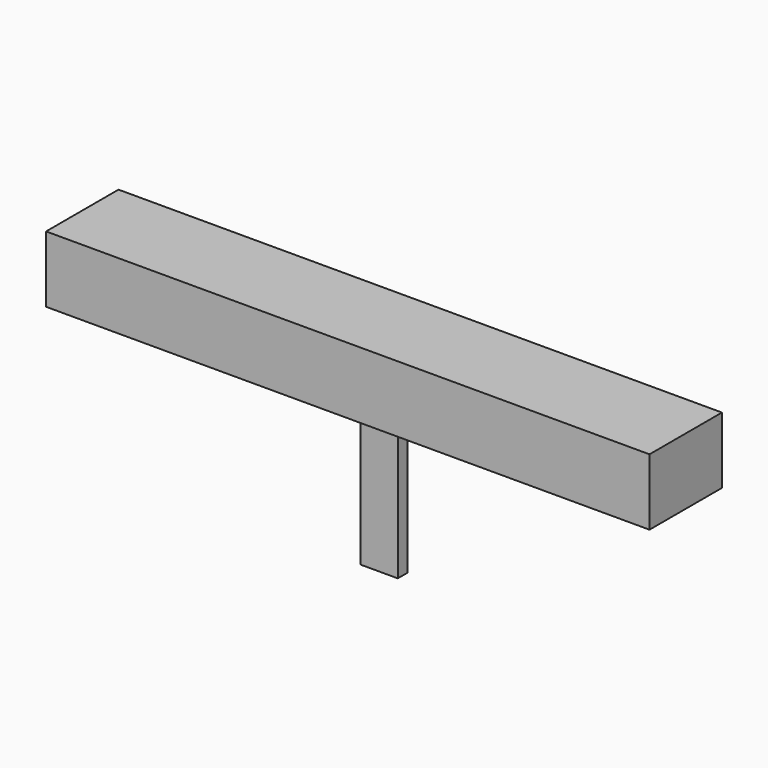
from build123d import *

# Parameters (mm, degrees)
F0_W     = 60
F0_H     = 9
F1_DEPTH = 6.6
F2_W     = 48.626702
F2_H     = 3.214986
F2_R     = 0.929944
F3_DEPTH = 1
F4_W     = 3.7
F4_H     = 1.2
F5_DEPTH = 21.6


with BuildPart() as f1:
    # F0 (on Top) → F1 (new body)
    with BuildSketch(Plane.XY):
        Rectangle(F0_W, F0_H)
    extrude(amount=-F1_DEPTH)

    # F2 (on face) → F3 (cut)
    with BuildSketch(Plane(origin=(0, 0, -6.6), x_dir=(1, 0, 0), z_dir=(0, 0, -1))):
        Rectangle(F2_W, F2_H)
        with Locations((-27.945412, 0)):
            Circle(F2_R)
        with Locations((27.945412, 0)):
            Circle(F2_R)
    extrude(amount=-F3_DEPTH, mode=Mode.SUBTRACT)

    # F4 (on face) → F5 (join)
    with BuildSketch(Plane.XY):
        Rectangle(F4_W, F4_H)
    extrude(amount=-F5_DEPTH)


solid = f1.part
